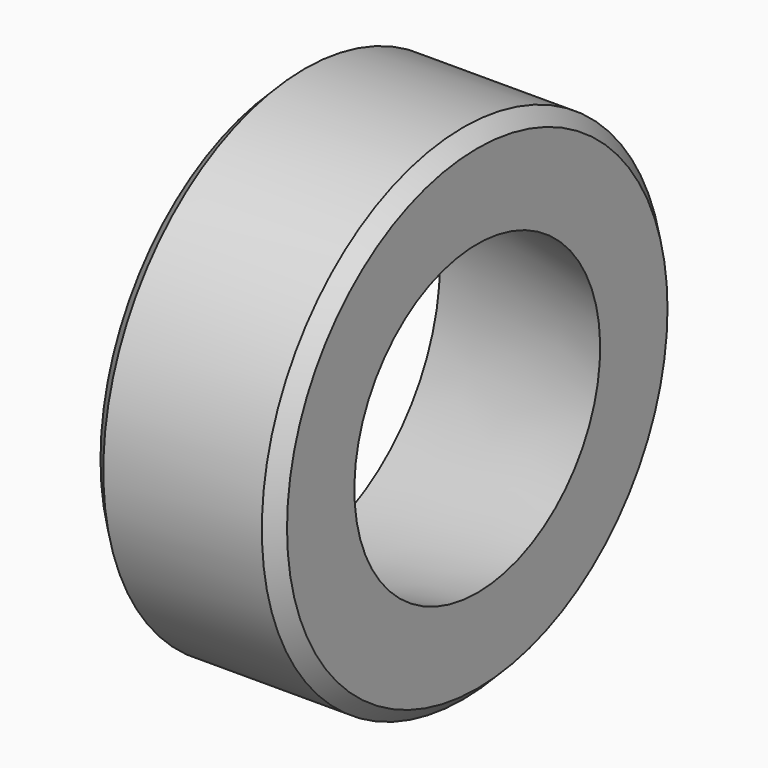
from build123d import *

# Parameters (mm, degrees)
F3_SIZE = 1.5


with BuildPart() as f2:
    # F1 (on Front) → F2 (revolve)
    with BuildSketch(Plane.XZ):
        Polygon((70, -20), (70, -27), (90, -27), (90, -20), (90, -16.47346), align=None)
    revolve(axis=Axis((79.5, 0, 0), (-1, 0, 0)))

    # F3
    f3_edges = [f2.edges().sort_by_distance(p)[0] for p in [
        (70, 0, 27),
        (90, 0, 27),
    ]]
    chamfer(f3_edges, length=F3_SIZE)


solid = f2.part
